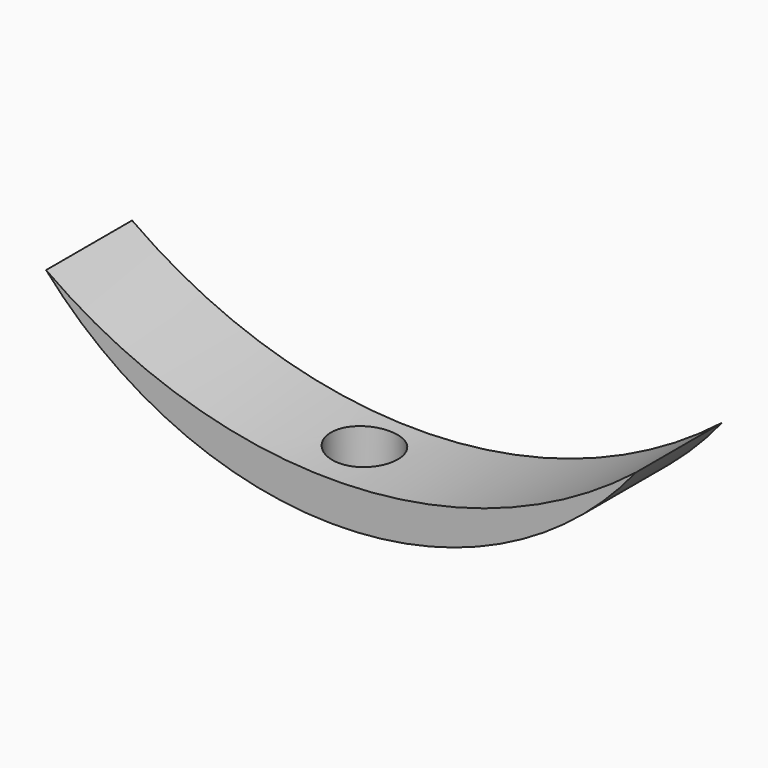
from build123d import *

# Parameters (mm, degrees)
F1_DEPTH = 10.16
F2_R     = 3.1623
F3_DEPTH = 127


with BuildPart() as f1:
    # F0 (on Front) → F1 (new body)
    with BuildSketch(Plane.XZ):
        with BuildLine():
            ThreePointArc((-7.613855, 38.972616), (-35.273551, 29.049834), (-63.362762, 37.682131))
            ThreePointArc((-63.362762, 37.682131), (-35.188377, 25.37032), (-7.613855, 38.972616))
        make_face()
    extrude(amount=F1_DEPTH)

    # F2 (on Top) → F3 (cut)
    with BuildSketch(Plane.XY):
        with Locations((-37.682131, -4.645742)):
            Circle(F2_R)
    extrude(amount=F3_DEPTH, mode=Mode.SUBTRACT)


solid = f1.part
